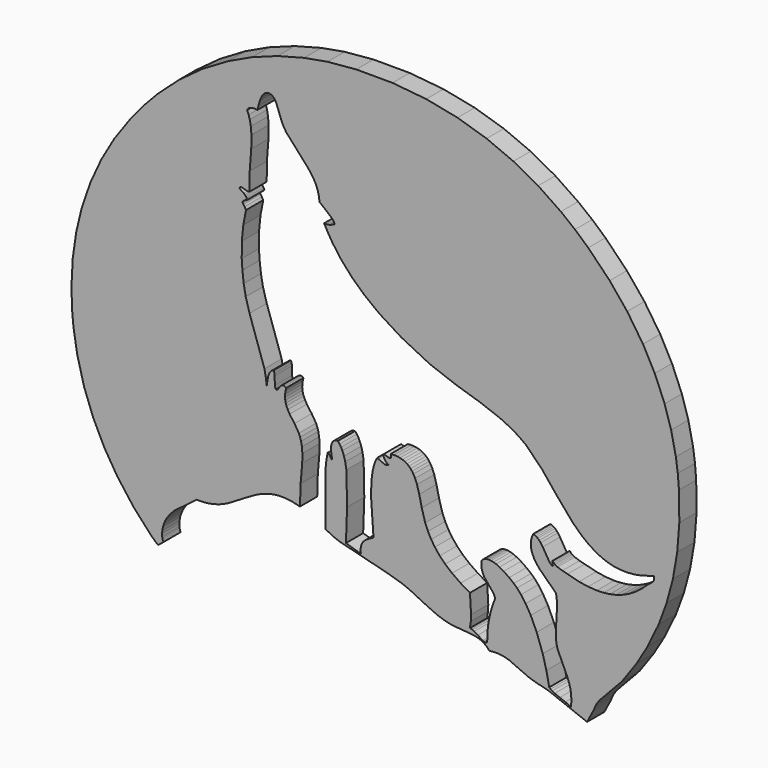
from build123d import *

# Parameters (mm, degrees)
F1_DEPTH = 1.5875


with BuildPart() as f1:
    # F0 (on Front) → F1 (new body)
    with BuildSketch(Plane.XZ):
        Polygon((-17.864741, -14.013116), (-17.406299, -14.415824), (-17.012226, -14.093187), (-17.046766, -14.014686), (-17.073457, -13.933046), (-17.093082, -13.84748), (-17.103287, -13.758775), (-17.106427, -13.564094), (-17.093082, -13.377263), (-17.045196, -13.109576), (-16.965911, -12.858375), (-16.85915, -12.620518), (-16.72727, -12.396792), (-16.519243, -12.1189), (-16.218587, -11.798619), (-14.563012, -10.541041), (-14.180715, -10.544181), (-13.821183, -10.516706), (-13.319565, -10.428001), (-12.855627, -10.28984), (-12.285714, -10.044918), (-10.74632, -9.120183), (-10.103401, -8.759081), (-9.695984, -8.577745), (-9.265016, -8.435659), (-8.801864, -8.342243), (-8.472947, -8.312413), (-8.124405, -8.310843), (-7.560771, -8.369719), (-6.942973, -8.509449), (-6.899013, -7.013231), (-6.778907, -5.644183), (-6.767917, -5.009899), (-6.801672, -4.578147), (-6.863687, -4.245305), (-6.934338, -4.003523), (-7.027753, -3.768022), (-7.35196, -3.252274), (-7.705212, -2.760076), (-7.846513, -2.51594), (-7.939144, -2.306343), (-7.992524, -2.139922), (-8.029419, -1.963296), (-8.047474, -1.776465), (-8.043549, -1.578644), (-8.014504, -1.367478), (-7.958769, -1.142967), (-8.011364, -1.105286), (-8.060819, -1.077811), (-8.107135, -1.059756), (-8.1299, -1.054261), (-8.151095, -1.051121), (-8.17229, -1.050336), (-8.1927, -1.051121), (-8.212325, -1.054261), (-8.231165, -1.058186), (-8.268061, -1.072316), (-8.302601, -1.091941), (-8.335571, -1.116276), (-8.381101, -1.160237), (-8.567147, -1.416148), (-8.600117, -1.454613), (-8.621313, -1.475024), (-8.632303, -1.482874), (-8.643293, -1.489154), (-8.654283, -1.493864), (-8.665273, -1.497004), (-8.675478, -1.497789), (-8.687253, -1.497004), (-8.698243, -1.493864), (-8.709233, -1.489154), (-8.721008, -1.482089), (-8.741418, -1.448333), (-8.758688, -1.411438), (-8.779098, -1.350993), (-8.797154, -1.259932), (-8.811284, -0.624079), (-8.823059, -0.500048), (-8.835619, -0.431753), (-8.854459, -0.369737), (-8.870944, -0.331272), (-8.889784, -0.296732), (-8.937669, -0.317142), (-8.95965, -0.328917), (-9.00204, -0.354822), (-9.040505, -0.383082), (-9.0931, -0.432538), (-9.139416, -0.488273), (-9.179451, -0.549503), (-9.214776, -0.615444), (-9.254026, -0.711999), (-9.300342, -0.869), (-9.398467, -1.482089), (-9.465192, -0.93494), (-9.564103, -0.419192), (-10.662324, 2.821306), (-10.942571, 3.804917), (-11.091722, 4.614257), (-11.187492, 5.444007), (-11.237733, 6.185051), (-11.232238, 7.320168), (-11.123907, 8.403474), (-10.922161, 9.440465), (-11.031277, 9.621801), (-11.117627, 9.745047), (-11.149027, 9.796857), (-11.160802, 9.820407), (-11.169437, 9.843957), (-11.173362, 9.865937), (-11.174147, 9.876927), (-11.174147, 9.887132), (-11.172577, 9.898122), (-11.170222, 9.908328), (-11.166297, 9.918533), (-11.160802, 9.929523), (-11.154522, 9.939728), (-11.138037, 9.960138), (-11.115272, 9.980548), (-11.069742, 10.012733), (-11.009296, 10.045703), (-10.83738, 10.117139), (-10.860931, 10.188574), (-10.890761, 10.25373), (-10.926871, 10.312605), (-10.967691, 10.36677), (-11.013221, 10.41544), (-11.088582, 10.482951), (-11.430059, 10.710602), (-11.407294, 10.738862), (-11.396304, 10.750637), (-11.371969, 10.771048), (-11.346848, 10.786748), (-11.320943, 10.797738), (-11.294253, 10.804803), (-11.266778, 10.808728), (-11.238518, 10.809513), (-11.209473, 10.807158), (-11.164727, 10.798523), (-11.023427, 10.755347), (-10.889976, 10.714527), (-10.822465, 10.701182), (-10.77144, 10.697257), (-10.7369, 10.698042), (-10.70236, 10.702752), (-10.667819, 10.710602), (-10.651334, 12.0561), (-10.537509, 13.530339), (-10.524949, 14.444084), (-10.568909, 14.988877), (-10.643484, 15.400219), (-10.72748, 15.689101), (-10.83738, 15.959928), (-10.825605, 15.988188), (-10.81226, 16.015663), (-10.787925, 16.052558), (-10.759665, 16.085528), (-10.728265, 16.114574), (-10.69294, 16.139694), (-10.653689, 16.161674), (-10.611299, 16.180514), (-10.550069, 16.200139), (-10.482558, 16.214269), (-10.391498, 16.224474), (-10.272177, 16.227614), (-10.075141, 16.213484), (-10.005276, 16.509431), (-9.90401, 16.868178), (-9.8208, 17.082484), (-9.753289, 17.214365), (-9.695199, 17.30464), (-9.630828, 17.384711), (-9.584513, 17.431811), (-9.534273, 17.473416), (-9.480893, 17.507957), (-9.423587, 17.534647), (-9.362357, 17.555057), (-9.297986, 17.566047), (-9.228906, 17.568402), (-9.159826, 17.560552), (-9.12607, 17.553487), (-9.06327, 17.531507), (-9.004395, 17.500892), (-8.948659, 17.461641), (-8.896849, 17.415326), (-8.847394, 17.361161), (-8.779883, 17.269315), (-8.697458, 17.127229), (-8.296321, 16.059623), (-8.21311, 15.875147), (-8.063174, 15.612171), (-7.952489, 15.444965), (-6.348724, 13.658294), (-6.048853, 13.265792), (-5.843966, 12.92824), (-5.716011, 12.657414), (-5.614745, 12.368532), (-5.542525, 12.05924), (-5.503274, 11.726398), (-5.033057, 11.344886), (-4.586389, 10.964159), (-4.510244, 10.873883), (-4.463928, 10.805588), (-4.440378, 10.760057), (-4.421538, 10.715312), (-4.408978, 10.670567), (-4.402698, 10.625822), (-4.572259, 10.552816), (-4.736325, 10.493156), (-4.840731, 10.467251), (-4.938856, 10.453906), (-5.046402, 10.449196), (-5.164937, 10.456261), (-4.863496, 9.900477), (-4.535364, 9.369814), (-3.93091, 8.536925), (-3.118431, 7.618469), (-2.2196, 6.782439), (-1.075064, 5.901664), (0.522421, 4.901568), (2.624663, 3.852017), (4.560484, 3.132168), (6.345584, 2.570105), (7.778218, 2.038657), (8.594622, 1.64537), (9.243036, 1.253652), (9.736804, 0.888625), (10.911956, -0.304582), (11.919902, -1.554309), (13.141369, -2.986157), (13.810193, -3.626721), (14.347921, -4.049054), (14.921759, -4.404661), (15.328392, -4.599342), (15.754649, -4.754773), (16.202887, -4.866243), (16.675459, -4.930614), (17.172367, -4.944744), (17.69675, -4.902353), (18.249393, -4.801873), (19.134879, -4.530261), (19.153719, -4.574222), (19.160784, -4.596202), (19.170204, -4.638592), (19.173344, -4.680197), (19.171774, -4.720232), (19.163924, -4.759483), (19.152149, -4.797163), (19.135664, -4.834058), (19.114468, -4.870168), (19.076788, -4.921979), (19.016343, -4.988704), (18.623056, -5.305061), (18.5422, -5.376496), (18.274514, -5.622988), (17.998192, -5.847499), (17.614325, -6.112045), (17.213187, -6.336557), (16.795565, -6.520248), (16.359102, -6.663119), (15.90537, -6.763599), (15.432797, -6.82326), (14.942169, -6.84053), (14.301606, -6.801279), (13.630427, -6.695304), (12.784977, -6.477073), (12.400325, -6.376592), (12.039222, -6.262766), (11.953657, -6.221161), (11.874371, -6.172491), (11.819421, -6.130101), (11.769181, -6.083), (11.723651, -6.02962), (11.6844, -5.969175), (11.682045, -6.090065), (11.6844, -6.206246), (11.688325, -6.227441), (11.69382, -6.247066), (11.699315, -6.258841), (11.705595, -6.269831), (11.712661, -6.279251), (11.721296, -6.287887), (11.730716, -6.294952), (11.741706, -6.301232), (11.754266, -6.305157), (11.768396, -6.308297), (11.740136, -6.312222), (11.711876, -6.313007), (11.6844, -6.309082), (11.65771, -6.302802), (11.63102, -6.292597), (11.60433, -6.278466), (11.55252, -6.242356), (11.501494, -6.194471), (11.452039, -6.137166), (10.955131, -5.312911), (10.798915, -5.089185), (10.69608, -4.969864), (10.585394, -4.867028), (10.506894, -4.808938), (10.424468, -4.760268), (10.337333, -4.723372), (10.244702, -4.699037), (10.171697, -4.867813), (10.119101, -5.033449), (10.086916, -5.19673), (10.072786, -5.356871), (10.075926, -5.513872), (10.095551, -5.667733), (10.130091, -5.819239), (10.207807, -6.04061), (10.311427, -6.254916), (10.438598, -6.462158), (10.690585, -6.792644), (11.937957, -8.001551), (11.993692, -8.434874), (12.011747, -8.770856), (11.935602, -10.138334), (11.916762, -10.701967), (11.937957, -11.049724), (11.992122, -11.371576), (12.054137, -11.598442), (12.756717, -13.134696), (12.899587, -13.514638), (12.987508, -13.843555), (13.045598, -14.201517), (13.065223, -14.594805), (13.038533, -15.028912), (12.621696, -14.829521), (12.205643, -14.676445), (11.835121, -14.525724), (11.649075, -14.427599), (11.534464, -14.352238), (11.430059, -14.266673), (11.222033, -13.236747), (10.952776, -12.244501), (10.507679, -10.988494), (10.068861, -10.038638), (9.693629, -9.394935), (9.352152, -8.921577), (9.059345, -8.59423), (8.819919, -8.373644), (8.481582, -8.102817), (8.076519, -7.82728), (7.765658, -7.653794), (7.513671, -7.541539), (7.326055, -7.479523), (7.143934, -7.440273), (7.026183, -7.427713), (6.913143, -7.428498), (6.804027, -7.443413), (6.701191, -7.473243), (6.604636, -7.518774), (6.51593, -7.581574), (6.43429, -7.662429), (6.425655, -7.79745), (6.42487, -7.923051), (6.439, -8.097322), (6.46883, -8.255108), (6.51279, -8.398764), (6.569311, -8.52986), (6.636821, -8.651535), (7.224789, -9.378449), (7.32684, -9.5276), (7.393565, -9.648491), (7.450871, -9.779587), (7.253835, -10.31025), (7.102329, -10.814223), (6.960243, -11.472842), (6.880957, -12.12204), (6.858192, -12.827759), (6.844847, -12.842675), (6.831502, -12.855235), (6.816587, -12.86544), (6.800887, -12.874075), (6.784402, -12.87957), (6.767132, -12.88428), (6.748292, -12.886635), (6.729452, -12.886635), (6.689416, -12.88271), (6.646241, -12.87172), (6.600711, -12.855235), (6.527705, -12.821479), (6.168958, -12.596183), (5.902057, -12.432117), (5.784306, -12.374812), (5.698741, -12.343412), (5.643005, -12.328497), (5.588055, -12.319077), (5.649285, -11.872409), (5.66891, -11.414751), (5.588055, -10.033143), (4.903531, -9.629651), (4.267677, -9.190048), (3.758209, -8.763006), (3.359427, -8.357944), (2.99911, -7.910491), (2.729853, -7.499934), (2.491997, -7.051696), (2.286326, -6.561853), (2.035124, -5.677938), (1.849078, -4.859178), (1.683442, -4.27592), (1.542926, -3.920313), (1.414186, -3.677746), (1.315275, -3.530165), (1.204589, -3.395145), (1.080559, -3.274254), (0.943183, -3.168278), (0.789322, -3.078788), (0.618976, -3.007352), (0.430575, -2.953972), (0.223334, -2.921787), (-0.004318, -2.910012), (-0.253949, -2.921002), (-0.239034, -2.997147), (-0.231969, -3.045818), (-0.228829, -3.088208), (-0.229614, -3.112543), (-0.232754, -3.133738), (-0.237464, -3.152578), (-0.241389, -3.161213), (-0.245314, -3.169063), (-0.250024, -3.176128), (-0.254734, -3.182408), (-0.261014, -3.187904), (-0.267294, -3.193399), (-0.274359, -3.197324), (-0.282209, -3.201249), (-0.300264, -3.206744), (-0.320674, -3.209884), (-0.344224, -3.210669), (-0.385045, -3.206744), (-0.469825, -3.188689), (-0.761847, -3.090563), (-0.768912, -3.096843), (-0.774407, -3.103908), (-0.779902, -3.111758), (-0.783827, -3.120393), (-0.786967, -3.129028), (-0.790892, -3.149438), (-0.791677, -3.171418), (-0.790107, -3.195754), (-0.785397, -3.221659), (-0.773622, -3.263264), (-0.750072, -3.322139), (-0.709252, -3.398285), (-0.659796, -3.473645), (-0.603276, -3.544296), (-0.555391, -3.593751), (-0.50672, -3.635356), (-0.47061, -3.660476), (-0.446275, -3.673821), (-0.42351, -3.683241), (-0.449415, -3.705222), (-0.46276, -3.714642), (-0.49102, -3.728772), (-0.520851, -3.739762), (-0.552251, -3.746042), (-0.584436, -3.748397), (-0.617406, -3.747612), (-0.669216, -3.741332), (-0.723382, -3.728772), (-1.159844, -3.546651), (-1.224215, -3.52467), (-1.269745, -3.51368), (-1.414186, -3.833962), (-1.500536, -4.099294), (-1.589242, -4.481591), (-1.673237, -5.104885), (-1.707777, -6.113616), (-1.524086, -8.763006), (-1.791773, -8.907447), (-2.046899, -9.063663), (-2.149735, -9.143733), (-2.220385, -9.210458), (-2.283971, -9.283464), (-2.340491, -9.364319), (-2.387591, -9.45381), (-2.426057, -9.553505), (-2.453532, -9.662621), (-2.469232, -9.784297), (-2.472372, -9.918533), (-2.455102, -10.117924), (-3.556463, -9.779587), (-3.472468, -7.425358), (-3.521923, -5.019319), (-3.608273, -4.523196), (-3.700904, -4.180149), (-3.81944, -3.866932), (-3.91521, -3.676176), (-4.024326, -3.501905), (-4.149142, -3.344904), (-4.223717, -3.348829), (-4.291227, -3.360605), (-4.351673, -3.37866), (-4.405053, -3.40378), (-4.452938, -3.435965), (-4.494544, -3.47286), (-4.530654, -3.51525), (-4.561269, -3.562351), (-4.587174, -3.614946), (-4.608369, -3.670681), (-4.631134, -3.760957), (-4.646049, -3.858297), (-4.653115, -3.995673), (-4.644479, -4.211549), (-4.572259, -4.699037), (-4.589529, -4.689617), (-4.597379, -4.684122), (-4.612294, -4.672347), (-4.632704, -4.651937), (-4.651545, -4.629957), (-4.733185, -4.494151), (-4.759875, -4.453331), (-4.77793, -4.431351), (-4.79834, -4.410941), (-4.813255, -4.399166), (-4.829741, -4.388175), (-4.847796, -4.378755), (-4.866636, -4.370905), (-4.887831, -4.364625), (-4.910596, -4.3607), (-5.004012, -4.914914), (-5.056607, -5.397691), (-5.080157, -9.355684), (-4.536934, -9.633576), (-4.069856, -9.821192), (-0.422725, -10.751422), (0.592286, -11.061499), (1.184964, -11.303281), (2.171715, -11.792338), (3.129421, -12.232726), (3.656159, -12.417987), (4.059651, -12.519253), (4.402698, -12.573418), (5.257568, -12.640143), (5.916972, -12.709224), (6.162678, -12.764959), (6.348724, -12.82933), (6.48296, -12.891345), (6.614056, -12.966705), (6.741227, -13.056981), (6.865257, -13.163741), (7.026968, -13.335657), (7.319775, -13.304257), (7.596097, -13.299547), (7.858288, -13.319957), (8.16758, -13.373338), (8.460387, -13.454193), (9.906365, -14.097112), (10.481773, -14.280803), (11.070527, -14.417394), (11.430059, -14.521014), (14.22075, -15.605891), (14.736498, -14.6317), (14.771823, -14.517089), (14.822064, -14.398554), (14.921759, -14.214078), (15.14313, -13.894581), (16.669179, -12.273546), (16.848945, -12.06552), (17.872591, -10.620327), (18.674866, -9.273259), (19.498336, -7.566659), (20.087089, -5.978595), (20.549457, -4.270425), (20.867384, -2.433514), (21.022815, -0.461583), (20.997694, 1.650865), (20.909774, 2.704341), (20.768473, 3.726417), (20.419146, 5.358441), (19.940293, 6.902545), (19.214164, 8.642115), (18.344379, 10.260795), (17.180217, 11.99958), (15.88967, 13.579794), (14.308671, 15.197688), (13.32977, 16.066688), (12.290424, 16.888588), (10.613654, 18.020565), (8.789304, 19.01438), (6.811092, 19.84884), (4.670385, 20.505889), (2.360901, 20.964332), (-0.125208, 21.205328), (-2.794224, 21.209253), (-4.923941, 21.016142), (-6.632896, 20.713915), (-8.597762, 20.192672), (-10.462933, 19.512073), (-12.222128, 18.686249), (-14.130475, 17.558982), (-15.87397, 16.2755), (-17.441624, 14.858566), (-18.439365, 13.80195), (-19.3955, 12.657414), (-20.638162, 10.906853), (-21.584878, 9.268549), (-22.395788, 7.500719), (-23.044986, 5.604933), (-23.443769, 3.925808), (-23.69811, 2.156408), (-23.791526, 0.295947), (-23.747565, -1.179077), (-23.650225, -2.248253), (-23.373118, -3.957993), (-22.86679, -5.891459), (-22.191686, -7.6954), (-21.371357, -9.369814), (-20.426211, -10.913918), (-19.197679, -12.552223), align=None)
    extrude(amount=F1_DEPTH)


solid = f1.part
